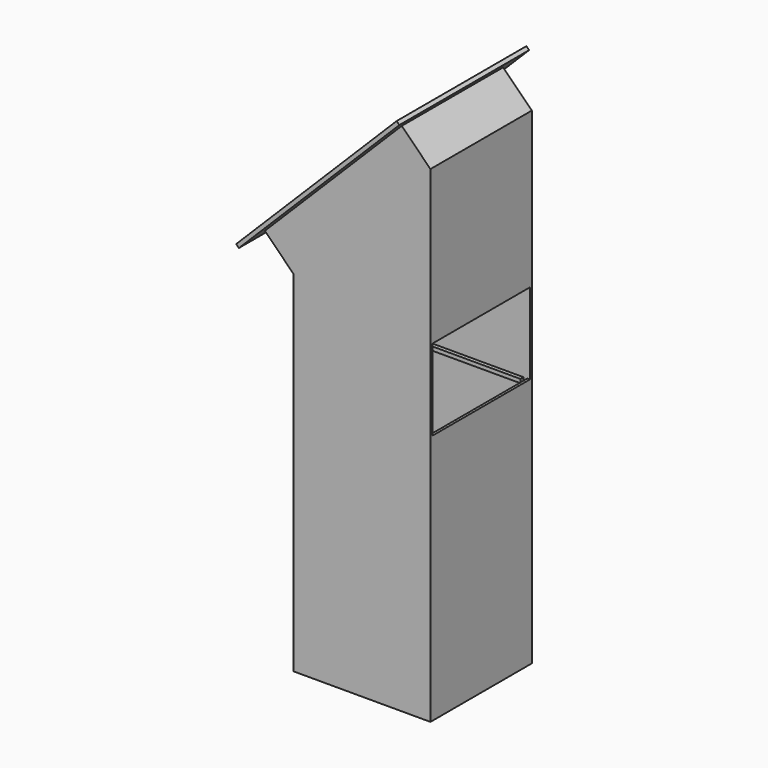
from build123d import *

# Parameters (mm, degrees)
F0_W      = 171.45
F0_H      = 158.75
F0_W_2    = 165.1
F0_H_2    = 152.4
F1_DEPTH  = 609.6
F3_DEPTH  = 158.751
F4_W      = 203.2
F4_H      = 284.28666
F4_W_2    = 152.4
F4_H_2    = 233.48666
F5_DEPTH  = 55.5625
F6_W      = 152.4
F6_H      = 101.6
F7_DEPTH  = 25.4
F8_W      = 160.3375
F8_H      = 4.7625
F9_DEPTH  = 4.7625
F10_W     = 160.3375
F10_H     = 4.7625
F11_DEPTH = 4.7625
F12_W     = 158.75
F12_H     = 242.466916
F13_DEPTH = 50.8


with BuildPart() as f1:
    # F0 (on Top) → F1 (new body)
    with BuildSketch(Plane.XY):
        Rectangle(F0_W, F0_H)
        Rectangle(F0_W_2, F0_H_2, mode=Mode.SUBTRACT)
    extrude(amount=F1_DEPTH)

    # F2 (on face) → F3 (cut, through all)
    with BuildSketch(Plane.XZ.offset(79.375)):
        Polygon((-85.725, 438.15), (85.725, 609.6), (-85.725, 609.6), align=None)
    extrude(amount=-F3_DEPTH, mode=Mode.SUBTRACT)

    # F4 (on face) → F5 (join)
    with BuildSketch(Plane(origin=(-261.9375, 0, 261.9375), x_dir=(0, -1, 0), z_dir=(-0.707107, 0, 0.707107))):
        with Locations((0, 370.435565)):
            Rectangle(F4_W, F4_H)
        with Locations((0, 370.435565)):
            Rectangle(F4_W_2, F4_H_2, mode=Mode.SUBTRACT)
    extrude(amount=F5_DEPTH)

    # F6 (on face) → F7 (cut)
    with BuildSketch(Plane.YZ.offset(85.725)):
        with Locations((0, 365.125)):
            Rectangle(F6_W, F6_H)
    extrude(amount=-F7_DEPTH, mode=Mode.SUBTRACT)

    # F8 (on face) → F9 (join)
    with BuildSketch(Plane(origin=(0, -76.2, 0), x_dir=(-1, 0, 0), z_dir=(0, 1, 0))):
        with Locations((2.38125, 311.94375)):
            Rectangle(F8_W, F8_H)
    extrude(amount=F9_DEPTH)

    # F10 (on face) → F11 (join)
    with BuildSketch(Plane.XZ.offset(-76.2)):
        with Locations((-2.38125, 311.94375)):
            Rectangle(F10_W, F10_H)
    extrude(amount=F11_DEPTH)

    # F12 (on face) → F13 (cut)
    with BuildSketch(Plane(origin=(-261.9375, 0, 261.9375), x_dir=(0, -1, 0), z_dir=(-0.707107, 0, 0.707107))):
        Polygon((101.6, 512.578895), (-101.6, 512.578895), (-101.6, 228.292235), (-79.375, 228.292235), (101.6, 228.292235), align=None)
        with Locations((0, 370.435565)):
            Rectangle(F12_W, F12_H, mode=Mode.SUBTRACT)
    extrude(amount=F13_DEPTH, mode=Mode.SUBTRACT)


solid = f1.part
